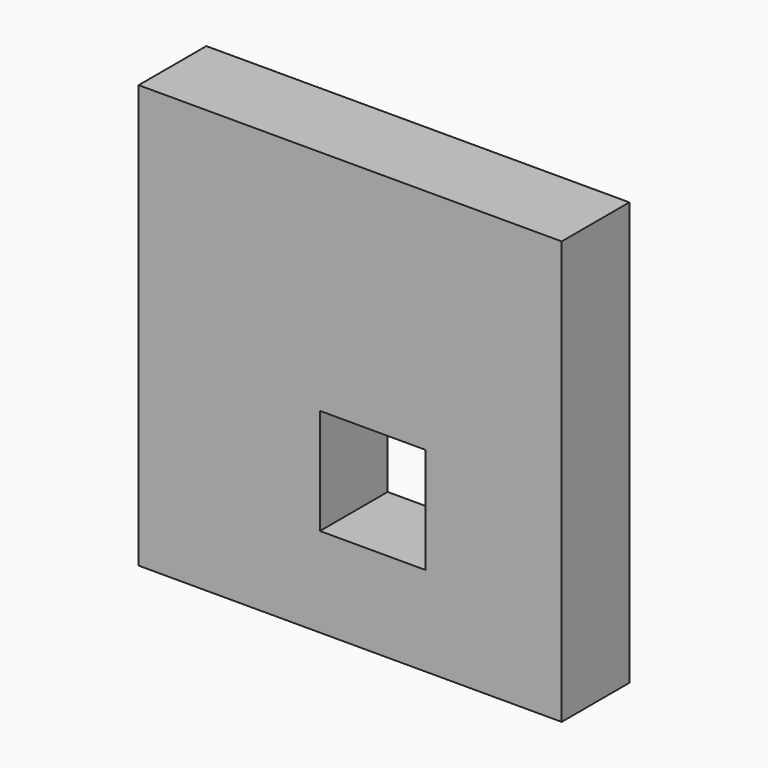
from build123d import *

# Parameters (mm, degrees)
F0_W     = 127
F0_H     = 127
F0_W_2   = 31.75
F0_H_2   = 31.75
F0_R     = 15.534992
F1_DEPTH = 25.4
F2_R     = 23.88256
F3_DEPTH = 6.35
F4_DEPTH = 25.4
F6_R     = 25.357693
F7_DEPTH = 6.35


with BuildPart() as f1:
    # F0 (on Front) → F1 (new body)
    with BuildSketch(Plane.XZ):
        Rectangle(F0_W, F0_H)
        with Locations((6.803889, -20.762809)):
            Rectangle(F0_W_2, F0_H_2, mode=Mode.SUBTRACT)
        with Locations((-35.603467, 33.871405)):
            Circle(F0_R, mode=Mode.SUBTRACT)
    extrude(amount=F1_DEPTH)

    # F2 (on face) → F3 (cut)
    with BuildSketch(Plane.XZ.offset(25.4)):
        with Locations((-35.603467, 33.871405)):
            Circle(F2_R)
    extrude(amount=-F3_DEPTH, mode=Mode.SUBTRACT)

    # F0 (on Front) → F4 (join)
    with BuildSketch(Plane.XZ):
        Rectangle(F0_W, F0_H)
        with Locations((6.803889, -20.762809)):
            Rectangle(F0_W_2, F0_H_2, mode=Mode.SUBTRACT)
        with Locations((-35.603467, 33.871405)):
            Circle(F0_R, mode=Mode.SUBTRACT)
    extrude(amount=F4_DEPTH)

    # F6 (on face) → F7 (join)
    with BuildSketch(Plane.XZ.offset(25.4)):
        with Locations((-35.603467, 33.871405)):
            Circle(F6_R)
    extrude(amount=-F7_DEPTH)


solid = f1.part
